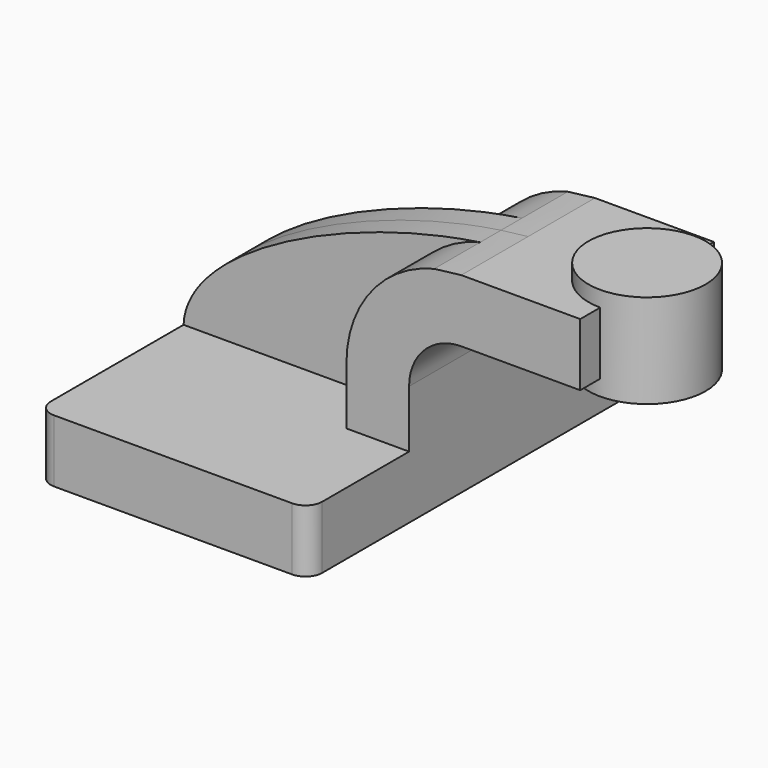
from build123d import *

# Parameters (mm, degrees)
F1_DEPTH = 63.5
F0_W     = 32.9946
F0_H     = 19.05
F2_DEPTH = 25.4
F3_DEPTH = 7.9375
F5_R     = 5.08


with BuildPart() as f1:
    # F0 (on Front) → F1 (new body, symmetric)
    with BuildSketch(Plane.XZ):
        Polygon((-41.275, -9.525), (41.275, -9.525), (41.275, 9.525), (22.225, 9.525), (-41.275, 9.525), align=None)
    extrude(amount=F1_DEPTH, both=True)

    # F0 (on Front) → F2 (join, symmetric)
    with BuildSketch(Plane.XZ):
        with Locations((76.8223, 52.4002)):
            Rectangle(F0_W, F0_H)
        with BuildLine():
            Line((22.225, 9.525), (41.275, 9.525))
            Line((41.275, 9.525), (41.275, 27.0002))
            ThreePointArc((41.275, 27.0002), (45.9246798487, 38.2255201513), (57.15, 42.8752))
            Line((57.15, 42.8752), (60.325, 42.8752))
            Line((60.325, 42.8752), (60.325, 61.9252))
            Line((60.325, 61.9252), (57.15, 61.9252))
            add(Edge.make_bspline(
                [(48.9105313437, 60.9393629429), (51.6985574941, 61.3494572854), (54.4509110956, 61.6799549216), (57.15, 61.9252)],
                knots=[104.3721141728, 104.3721141728, 104.3721141728, 104.3721141728, 111.5045361635, 111.5045361635, 111.5045361635, 111.5045361635], degree=3))
            ThreePointArc((48.9105313437, 60.9393629429), (29.6953185429, 48.5871426063), (22.225, 27.0002))
            Line((22.225, 27.0002), (22.225, 9.525))
        make_face()
    extrude(amount=F2_DEPTH, both=True)

    # F0 (on Front) → F3 (join, symmetric)
    with BuildSketch(Plane.XZ):
        with BuildLine():
            add(Edge.make_bspline(
                [(-41.275, 9.525), (-40.3253555767, 31.8924279023), (8.1120222163, 54.9382579049), (48.9105313437, 60.9393629429)],
                knots=[0, 0, 0, 0, 104.3721141728, 104.3721141728, 104.3721141728, 104.3721141728], degree=3))
            Line((-41.275, 9.525), (22.225, 9.525))
            Line((22.225, 9.525), (22.225, 27.0002))
            ThreePointArc((22.225, 27.0002), (29.6953185429, 48.5871426063), (48.9105313437, 60.9393629429))
        make_face()
    extrude(amount=F3_DEPTH, both=True)

    # F0 (on Front) → F4 (revolve)
    with BuildSketch(Plane.XZ):
        Polygon((93.3196, 61.9252), (93.3196, 42.8752), (93.3196, 38.1), (111.125, 38.1), (111.125, 66.675), (93.3196, 66.675), align=None)
    revolve(axis=Axis((93.3196, 0, 52.3875), (0, 0, 1)))

    # F5
    f5_edges = [f1.edges().sort_by_distance(p)[0] for p in [
        (-41.275, -63.5, 0),
        (41.275, -63.5, 0),
        (-41.275, 63.5, 0),
        (41.275, 63.5, 0),
    ]]
    fillet(f5_edges, radius=F5_R)


solid = f1.part
